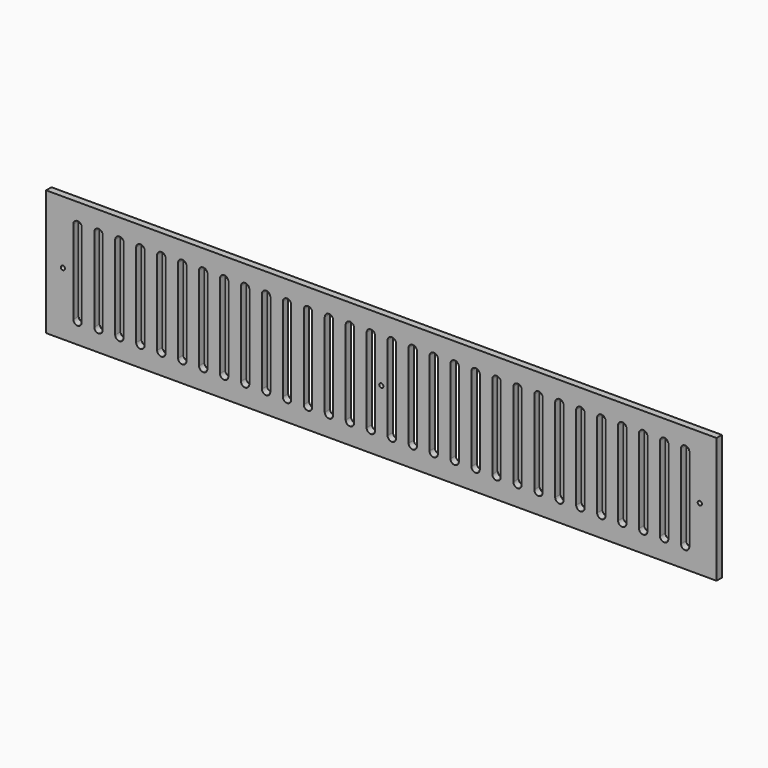
from build123d import *

# Parameters (mm, degrees)
F1_DEPTH = 8


with BuildPart() as f1:
    # F0 (on Front) → F1 (new body)
    with BuildSketch(Plane.XZ):
        with BuildLine():
            Line((7.5, 0), (2.5, 0))
            ThreePointArc((2.5, 0), (0, -2.5), (-2.5, 0))
            Line((-2.5, 0), (-7.5, 0))
            Line((-7.5, 0), (-7.5, -50))
            ThreePointArc((-7.5, -50), (-8.964466, -53.535534), (-12.5, -55))
            ThreePointArc((-12.5, -55), (-16.035534, -53.535534), (-17.5, -50))
            Line((-17.5, -50), (-17.5, 0))
            Line((-17.5, 0), (-32.5, 0))
            Line((-32.5, 0), (-32.5, -50))
            ThreePointArc((-32.5, -50), (-33.964466, -53.535534), (-37.5, -55))
            ThreePointArc((-37.5, -55), (-41.035534, -53.535534), (-42.5, -50))
            Line((-42.5, -50), (-42.5, 0))
            Line((-42.5, 0), (-57.5, 0))
            Line((-57.5, 0), (-57.5, -50))
            ThreePointArc((-57.5, -50), (-58.964466, -53.535534), (-62.5, -55))
            ThreePointArc((-62.5, -55), (-66.035534, -53.535534), (-67.5, -50))
            Line((-67.5, -50), (-67.5, 0))
            Line((-67.5, 0), (-82.5, 0))
            Line((-82.5, 0), (-82.5, -50))
            ThreePointArc((-82.5, -50), (-83.964466, -53.535534), (-87.5, -55))
            ThreePointArc((-87.5, -55), (-91.035534, -53.535534), (-92.5, -50))
            Line((-92.5, -50), (-92.5, 0))
            Line((-92.5, 0), (-107.5, 0))
            Line((-107.5, 0), (-107.5, -50))
            ThreePointArc((-107.5, -50), (-108.964466, -53.535534), (-112.5, -55))
            ThreePointArc((-112.5, -55), (-116.035534, -53.535534), (-117.5, -50))
            Line((-117.5, -50), (-117.5, 0))
            Line((-117.5, 0), (-132.5, 0))
            Line((-132.5, 0), (-132.5, -50))
            ThreePointArc((-132.5, -50), (-133.964466, -53.535534), (-137.5, -55))
            ThreePointArc((-137.5, -55), (-141.035534, -53.535534), (-142.5, -50))
            Line((-142.5, -50), (-142.5, 0))
            Line((-142.5, 0), (-157.5, 0))
            Line((-157.5, 0), (-157.5, -50))
            ThreePointArc((-157.5, -50), (-158.964466, -53.535534), (-162.5, -55))
            ThreePointArc((-162.5, -55), (-166.035534, -53.535534), (-167.5, -50))
            Line((-167.5, -50), (-167.5, 0))
            Line((-167.5, 0), (-182.5, 0))
            Line((-182.5, 0), (-182.5, -50))
            ThreePointArc((-182.5, -50), (-183.964466, -53.535534), (-187.5, -55))
            ThreePointArc((-187.5, -55), (-191.035534, -53.535534), (-192.5, -50))
            Line((-192.5, -50), (-192.5, 0))
            Line((-192.5, 0), (-207.5, 0))
            Line((-207.5, 0), (-207.5, -50))
            ThreePointArc((-207.5, -50), (-208.964466, -53.535534), (-212.5, -55))
            ThreePointArc((-212.5, -55), (-216.035534, -53.535534), (-217.5, -50))
            Line((-217.5, -50), (-217.5, 0))
            Line((-217.5, 0), (-232.5, 0))
            Line((-232.5, 0), (-232.5, -50))
            ThreePointArc((-232.5, -50), (-233.964466, -53.535534), (-237.5, -55))
            ThreePointArc((-237.5, -55), (-241.035534, -53.535534), (-242.5, -50))
            Line((-242.5, -50), (-242.5, 0))
            Line((-242.5, 0), (-257.5, 0))
            Line((-257.5, 0), (-257.5, -50))
            ThreePointArc((-257.5, -50), (-258.964466, -53.535534), (-262.5, -55))
            ThreePointArc((-262.5, -55), (-266.035534, -53.535534), (-267.5, -50))
            Line((-267.5, -50), (-267.5, 0))
            Line((-267.5, 0), (-282.5, 0))
            Line((-282.5, 0), (-282.5, -50))
            ThreePointArc((-282.5, -50), (-283.964466, -53.535534), (-287.5, -55))
            ThreePointArc((-287.5, -55), (-291.035534, -53.535534), (-292.5, -50))
            Line((-292.5, -50), (-292.5, 0))
            Line((-292.5, 0), (-307.5, 0))
            Line((-307.5, 0), (-307.5, -50))
            ThreePointArc((-307.5, -50), (-308.964466, -53.535534), (-312.5, -55))
            ThreePointArc((-312.5, -55), (-316.035534, -53.535534), (-317.5, -50))
            Line((-317.5, -50), (-317.5, 0))
            Line((-317.5, 0), (-332.5, 0))
            Line((-332.5, 0), (-332.5, -50))
            ThreePointArc((-332.5, -50), (-333.964466, -53.535534), (-337.5, -55))
            ThreePointArc((-337.5, -55), (-341.035534, -53.535534), (-342.5, -50))
            Line((-342.5, -50), (-342.5, 0))
            Line((-342.5, 0), (-357.5, 0))
            Line((-357.5, 0), (-357.5, -50))
            ThreePointArc((-357.5, -50), (-358.964466, -53.535534), (-362.5, -55))
            ThreePointArc((-362.5, -55), (-366.035534, -53.535534), (-367.5, -50))
            Line((-367.5, -50), (-367.5, 0))
            Line((-367.5, 0), (-377.5, 0))
            ThreePointArc((-377.5, 0), (-380, -2.5), (-382.5, 0))
            Line((-382.5, 0), (-400, 0))
            Line((-400, 0), (-400, -75))
            Line((-400, -75), (400, -75))
            Line((400, -75), (400, 0))
            Line((400, 0), (382.5, 0))
            ThreePointArc((382.5, 0), (380, -2.5), (377.5, 0))
            Line((377.5, 0), (367.5, 0))
            Line((367.5, 0), (367.5, -50))
            ThreePointArc((367.5, -50), (366.035534, -53.535534), (362.5, -55))
            ThreePointArc((362.5, -55), (358.964466, -53.535534), (357.5, -50))
            Line((357.5, -50), (357.5, 0))
            Line((357.5, 0), (342.5, 0))
            Line((342.5, 0), (342.5, -50))
            ThreePointArc((342.5, -50), (341.035534, -53.535534), (337.5, -55))
            ThreePointArc((337.5, -55), (333.964466, -53.535534), (332.5, -50))
            Line((332.5, -50), (332.5, 0))
            Line((332.5, 0), (317.5, 0))
            Line((317.5, 0), (317.5, -50))
            ThreePointArc((317.5, -50), (316.035534, -53.535534), (312.5, -55))
            ThreePointArc((312.5, -55), (308.964466, -53.535534), (307.5, -50))
            Line((307.5, -50), (307.5, 0))
            Line((307.5, 0), (292.5, 0))
            Line((292.5, 0), (292.5, -50))
            ThreePointArc((292.5, -50), (291.035534, -53.535534), (287.5, -55))
            ThreePointArc((287.5, -55), (283.964466, -53.535534), (282.5, -50))
            Line((282.5, -50), (282.5, 0))
            Line((282.5, 0), (267.5, 0))
            Line((267.5, 0), (267.5, -50))
            ThreePointArc((267.5, -50), (266.035534, -53.535534), (262.5, -55))
            ThreePointArc((262.5, -55), (258.964466, -53.535534), (257.5, -50))
            Line((257.5, -50), (257.5, 0))
            Line((257.5, 0), (242.5, 0))
            Line((242.5, 0), (242.5, -50))
            ThreePointArc((242.5, -50), (241.035534, -53.535534), (237.5, -55))
            ThreePointArc((237.5, -55), (233.964466, -53.535534), (232.5, -50))
            Line((232.5, -50), (232.5, 0))
            Line((232.5, 0), (217.5, 0))
            Line((217.5, 0), (217.5, -50))
            ThreePointArc((217.5, -50), (216.035534, -53.535534), (212.5, -55))
            ThreePointArc((212.5, -55), (208.964466, -53.535534), (207.5, -50))
            Line((207.5, -50), (207.5, 0))
            Line((207.5, 0), (192.5, 0))
            Line((192.5, 0), (192.5, -50))
            ThreePointArc((192.5, -50), (191.035534, -53.535534), (187.5, -55))
            ThreePointArc((187.5, -55), (183.964466, -53.535534), (182.5, -50))
            Line((182.5, -50), (182.5, 0))
            Line((182.5, 0), (167.5, 0))
            Line((167.5, 0), (167.5, -50))
            ThreePointArc((167.5, -50), (166.035534, -53.535534), (162.5, -55))
            ThreePointArc((162.5, -55), (158.964466, -53.535534), (157.5, -50))
            Line((157.5, -50), (157.5, 0))
            Line((157.5, 0), (142.5, 0))
            Line((142.5, 0), (142.5, -50))
            ThreePointArc((142.5, -50), (141.035534, -53.535534), (137.5, -55))
            ThreePointArc((137.5, -55), (133.964466, -53.535534), (132.5, -50))
            Line((132.5, -50), (132.5, 0))
            Line((132.5, 0), (117.5, 0))
            Line((117.5, 0), (117.5, -50))
            ThreePointArc((117.5, -50), (116.035534, -53.535534), (112.5, -55))
            ThreePointArc((112.5, -55), (108.964466, -53.535534), (107.5, -50))
            Line((107.5, -50), (107.5, 0))
            Line((107.5, 0), (92.5, 0))
            Line((92.5, 0), (92.5, -50))
            ThreePointArc((92.5, -50), (91.035534, -53.535534), (87.5, -55))
            ThreePointArc((87.5, -55), (83.964466, -53.535534), (82.5, -50))
            Line((82.5, -50), (82.5, 0))
            Line((82.5, 0), (67.5, 0))
            Line((67.5, 0), (67.5, -50))
            ThreePointArc((67.5, -50), (66.035534, -53.535534), (62.5, -55))
            ThreePointArc((62.5, -55), (58.964466, -53.535534), (57.5, -50))
            Line((57.5, -50), (57.5, 0))
            Line((57.5, 0), (42.5, 0))
            Line((42.5, 0), (42.5, -50))
            ThreePointArc((42.5, -50), (41.035534, -53.535534), (37.5, -55))
            ThreePointArc((37.5, -55), (33.964466, -53.535534), (32.5, -50))
            Line((32.5, -50), (32.5, 0))
            Line((32.5, 0), (17.5, 0))
            Line((17.5, 0), (17.5, -50))
            ThreePointArc((17.5, -50), (16.035534, -53.535534), (12.5, -55))
            ThreePointArc((12.5, -55), (8.964466, -53.535534), (7.5, -50))
            Line((7.5, -50), (7.5, 0))
        make_face()
        with BuildLine():
            ThreePointArc((-2.5, 0), (0, 2.5), (2.5, 0))
            Line((2.5, 0), (7.5, 0))
            Line((7.5, 0), (7.5, 50))
            ThreePointArc((7.5, 50), (8.964466, 53.535534), (12.5, 55))
            ThreePointArc((12.5, 55), (16.035534, 53.535534), (17.5, 50))
            Line((17.5, 50), (17.5, 0))
            Line((17.5, 0), (32.5, 0))
            Line((32.5, 0), (32.5, 50))
            ThreePointArc((32.5, 50), (33.964466, 53.535534), (37.5, 55))
            ThreePointArc((37.5, 55), (41.035534, 53.535534), (42.5, 50))
            Line((42.5, 50), (42.5, 0))
            Line((42.5, 0), (57.5, 0))
            Line((57.5, 0), (57.5, 50))
            ThreePointArc((57.5, 50), (58.964466, 53.535534), (62.5, 55))
            ThreePointArc((62.5, 55), (66.035534, 53.535534), (67.5, 50))
            Line((67.5, 50), (67.5, 0))
            Line((67.5, 0), (82.5, 0))
            Line((82.5, 0), (82.5, 50))
            ThreePointArc((82.5, 50), (83.964466, 53.535534), (87.5, 55))
            ThreePointArc((87.5, 55), (91.035534, 53.535534), (92.5, 50))
            Line((92.5, 50), (92.5, 0))
            Line((92.5, 0), (107.5, 0))
            Line((107.5, 0), (107.5, 50))
            ThreePointArc((107.5, 50), (108.964466, 53.535534), (112.5, 55))
            ThreePointArc((112.5, 55), (116.035534, 53.535534), (117.5, 50))
            Line((117.5, 50), (117.5, 0))
            Line((117.5, 0), (132.5, 0))
            Line((132.5, 0), (132.5, 50))
            ThreePointArc((132.5, 50), (133.964466, 53.535534), (137.5, 55))
            ThreePointArc((137.5, 55), (141.035534, 53.535534), (142.5, 50))
            Line((142.5, 50), (142.5, 0))
            Line((142.5, 0), (157.5, 0))
            Line((157.5, 0), (157.5, 50))
            ThreePointArc((157.5, 50), (158.964466, 53.535534), (162.5, 55))
            ThreePointArc((162.5, 55), (166.035534, 53.535534), (167.5, 50))
            Line((167.5, 50), (167.5, 0))
            Line((167.5, 0), (182.5, 0))
            Line((182.5, 0), (182.5, 50))
            ThreePointArc((182.5, 50), (183.964466, 53.535534), (187.5, 55))
            ThreePointArc((187.5, 55), (191.035534, 53.535534), (192.5, 50))
            Line((192.5, 50), (192.5, 0))
            Line((192.5, 0), (207.5, 0))
            Line((207.5, 0), (207.5, 50))
            ThreePointArc((207.5, 50), (208.964466, 53.535534), (212.5, 55))
            ThreePointArc((212.5, 55), (216.035534, 53.535534), (217.5, 50))
            Line((217.5, 50), (217.5, 0))
            Line((217.5, 0), (232.5, 0))
            Line((232.5, 0), (232.5, 50))
            ThreePointArc((232.5, 50), (233.964466, 53.535534), (237.5, 55))
            ThreePointArc((237.5, 55), (241.035534, 53.535534), (242.5, 50))
            Line((242.5, 50), (242.5, 0))
            Line((242.5, 0), (257.5, 0))
            Line((257.5, 0), (257.5, 50))
            ThreePointArc((257.5, 50), (258.964466, 53.535534), (262.5, 55))
            ThreePointArc((262.5, 55), (266.035534, 53.535534), (267.5, 50))
            Line((267.5, 50), (267.5, 0))
            Line((267.5, 0), (282.5, 0))
            Line((282.5, 0), (282.5, 50))
            ThreePointArc((282.5, 50), (283.964466, 53.535534), (287.5, 55))
            ThreePointArc((287.5, 55), (291.035534, 53.535534), (292.5, 50))
            Line((292.5, 50), (292.5, 0))
            Line((292.5, 0), (307.5, 0))
            Line((307.5, 0), (307.5, 50))
            ThreePointArc((307.5, 50), (308.964466, 53.535534), (312.5, 55))
            ThreePointArc((312.5, 55), (316.035534, 53.535534), (317.5, 50))
            Line((317.5, 50), (317.5, 0))
            Line((317.5, 0), (332.5, 0))
            Line((332.5, 0), (332.5, 50))
            ThreePointArc((332.5, 50), (333.964466, 53.535534), (337.5, 55))
            ThreePointArc((337.5, 55), (341.035534, 53.535534), (342.5, 50))
            Line((342.5, 50), (342.5, 0))
            Line((342.5, 0), (357.5, 0))
            Line((357.5, 0), (357.5, 50))
            ThreePointArc((357.5, 50), (358.964466, 53.535534), (362.5, 55))
            ThreePointArc((362.5, 55), (366.035534, 53.535534), (367.5, 50))
            Line((367.5, 50), (367.5, 0))
            Line((367.5, 0), (377.5, 0))
            ThreePointArc((377.5, 0), (380, 2.5), (382.5, 0))
            Line((382.5, 0), (400, 0))
            Line((400, 0), (400, 75))
            Line((400, 75), (-400, 75))
            Line((-400, 75), (-400, 0))
            Line((-400, 0), (-382.5, 0))
            ThreePointArc((-382.5, 0), (-380, 2.5), (-377.5, 0))
            Line((-377.5, 0), (-367.5, 0))
            Line((-367.5, 0), (-367.5, 50))
            ThreePointArc((-367.5, 50), (-366.035534, 53.535534), (-362.5, 55))
            ThreePointArc((-362.5, 55), (-358.964466, 53.535534), (-357.5, 50))
            Line((-357.5, 50), (-357.5, 0))
            Line((-357.5, 0), (-342.5, 0))
            Line((-342.5, 0), (-342.5, 50))
            ThreePointArc((-342.5, 50), (-341.035534, 53.535534), (-337.5, 55))
            ThreePointArc((-337.5, 55), (-333.964466, 53.535534), (-332.5, 50))
            Line((-332.5, 50), (-332.5, 0))
            Line((-332.5, 0), (-317.5, 0))
            Line((-317.5, 0), (-317.5, 50))
            ThreePointArc((-317.5, 50), (-316.035534, 53.535534), (-312.5, 55))
            ThreePointArc((-312.5, 55), (-308.964466, 53.535534), (-307.5, 50))
            Line((-307.5, 50), (-307.5, 0))
            Line((-307.5, 0), (-292.5, 0))
            Line((-292.5, 0), (-292.5, 50))
            ThreePointArc((-292.5, 50), (-291.035534, 53.535534), (-287.5, 55))
            ThreePointArc((-287.5, 55), (-283.964466, 53.535534), (-282.5, 50))
            Line((-282.5, 50), (-282.5, 0))
            Line((-282.5, 0), (-267.5, 0))
            Line((-267.5, 0), (-267.5, 50))
            ThreePointArc((-267.5, 50), (-266.035534, 53.535534), (-262.5, 55))
            ThreePointArc((-262.5, 55), (-258.964466, 53.535534), (-257.5, 50))
            Line((-257.5, 50), (-257.5, 0))
            Line((-257.5, 0), (-242.5, 0))
            Line((-242.5, 0), (-242.5, 50))
            ThreePointArc((-242.5, 50), (-241.035534, 53.535534), (-237.5, 55))
            ThreePointArc((-237.5, 55), (-233.964466, 53.535534), (-232.5, 50))
            Line((-232.5, 50), (-232.5, 0))
            Line((-232.5, 0), (-217.5, 0))
            Line((-217.5, 0), (-217.5, 50))
            ThreePointArc((-217.5, 50), (-216.035534, 53.535534), (-212.5, 55))
            ThreePointArc((-212.5, 55), (-208.964466, 53.535534), (-207.5, 50))
            Line((-207.5, 50), (-207.5, 0))
            Line((-207.5, 0), (-192.5, 0))
            Line((-192.5, 0), (-192.5, 50))
            ThreePointArc((-192.5, 50), (-191.035534, 53.535534), (-187.5, 55))
            ThreePointArc((-187.5, 55), (-183.964466, 53.535534), (-182.5, 50))
            Line((-182.5, 50), (-182.5, 0))
            Line((-182.5, 0), (-167.5, 0))
            Line((-167.5, 0), (-167.5, 50))
            ThreePointArc((-167.5, 50), (-166.035534, 53.535534), (-162.5, 55))
            ThreePointArc((-162.5, 55), (-158.964466, 53.535534), (-157.5, 50))
            Line((-157.5, 50), (-157.5, 0))
            Line((-157.5, 0), (-142.5, 0))
            Line((-142.5, 0), (-142.5, 50))
            ThreePointArc((-142.5, 50), (-141.035534, 53.535534), (-137.5, 55))
            ThreePointArc((-137.5, 55), (-133.964466, 53.535534), (-132.5, 50))
            Line((-132.5, 50), (-132.5, 0))
            Line((-132.5, 0), (-117.5, 0))
            Line((-117.5, 0), (-117.5, 50))
            ThreePointArc((-117.5, 50), (-116.035534, 53.535534), (-112.5, 55))
            ThreePointArc((-112.5, 55), (-108.964466, 53.535534), (-107.5, 50))
            Line((-107.5, 50), (-107.5, 0))
            Line((-107.5, 0), (-92.5, 0))
            Line((-92.5, 0), (-92.5, 50))
            ThreePointArc((-92.5, 50), (-91.035534, 53.535534), (-87.5, 55))
            ThreePointArc((-87.5, 55), (-83.964466, 53.535534), (-82.5, 50))
            Line((-82.5, 50), (-82.5, 0))
            Line((-82.5, 0), (-67.5, 0))
            Line((-67.5, 0), (-67.5, 50))
            ThreePointArc((-67.5, 50), (-66.035534, 53.535534), (-62.5, 55))
            ThreePointArc((-62.5, 55), (-58.964466, 53.535534), (-57.5, 50))
            Line((-57.5, 50), (-57.5, 0))
            Line((-57.5, 0), (-42.5, 0))
            Line((-42.5, 0), (-42.5, 50))
            ThreePointArc((-42.5, 50), (-41.035534, 53.535534), (-37.5, 55))
            ThreePointArc((-37.5, 55), (-33.964466, 53.535534), (-32.5, 50))
            Line((-32.5, 50), (-32.5, 0))
            Line((-32.5, 0), (-17.5, 0))
            Line((-17.5, 0), (-17.5, 50))
            ThreePointArc((-17.5, 50), (-16.035534, 53.535534), (-12.5, 55))
            ThreePointArc((-12.5, 55), (-8.964466, 53.535534), (-7.5, 50))
            Line((-7.5, 50), (-7.5, 0))
            Line((-7.5, 0), (-2.5, 0))
        make_face()
    extrude(amount=F1_DEPTH)


solid = f1.part
